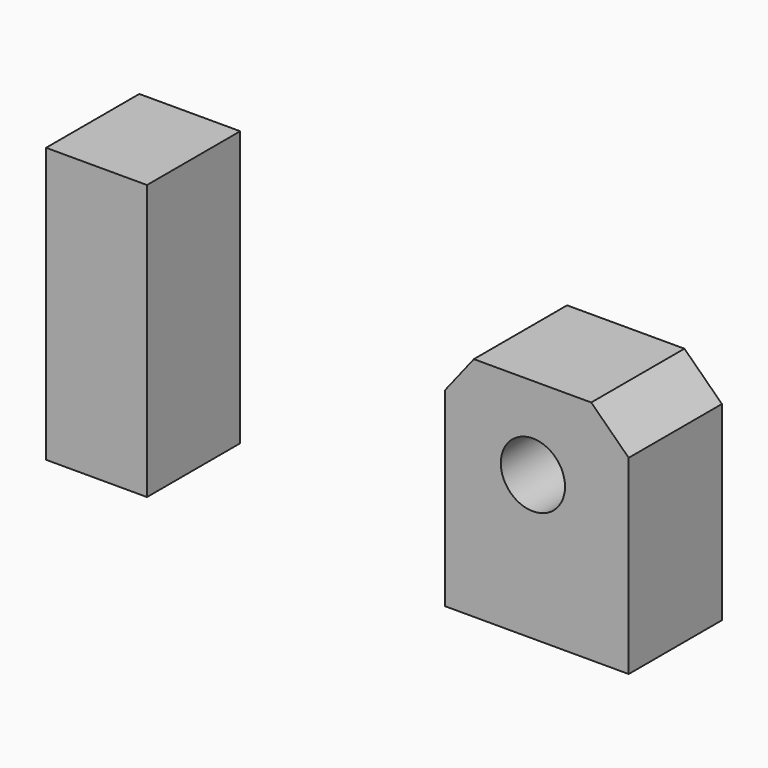
from build123d import *

# Parameters (mm, degrees)
F0_W     = 21.9964
F0_H     = 7.27937
F0_R     = 6.9977
F0_H_2   = 52.599722
F1_DEPTH = 25.4


with BuildPart() as f1:
    # F0 (on Front) → F1 (new body)
    with BuildSketch(Plane.XZ):
        with Locations((-52.174352, 24.621328)):
            Rectangle(F0_W, F0_H)
        Polygon((55.649079, 18.023642), (30.067971, 18.023642), (23.814812, 10.065076), (23.814812, -31.433165), (63.819812, -31.433165), (63.819812, 10.065076), align=None)
        with Locations((42.942431, 0)):
            Circle(F0_R, mode=Mode.SUBTRACT)
        with Locations((-52.174352, -5.318218)):
            Rectangle(F0_W, F0_H_2)
    extrude(amount=-F1_DEPTH)


solid = f1.part
